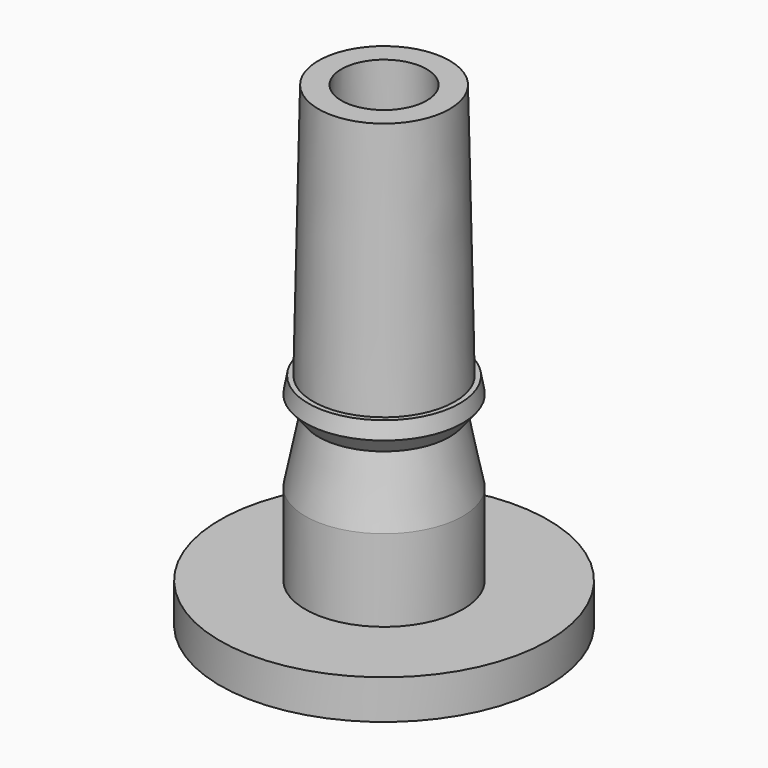
from build123d import *


with BuildPart() as f1:
    # F0 (on Front) → F1 (revolve)
    with BuildSketch(Plane.XZ):
        Polygon((1.3, 14.5), (1.573288, 1.2), (2.4, 1.2), (2.4, 3.7), (2, 5.7), (2.4, 6.2), (2.310274, 6.7), (2.160274, 6.7), (2, 14.5), align=None)
        Polygon((0, 1.2), (0, 0), (5, 0), (5, 1.2), (2.4, 1.2), (1.573288, 1.2), align=None)
    revolve(axis=Axis((0, 0, 7.25), (0, 0, 1)))


solid = f1.part
